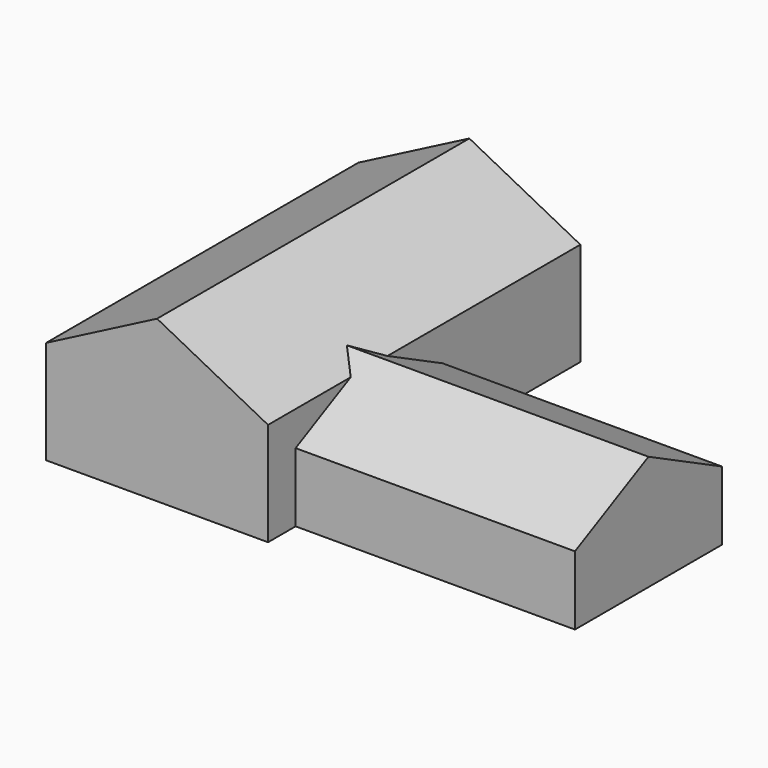
from build123d import *

# Parameters (mm, degrees)
F0_W     = 2946.4
F0_H     = 1371.6
F1_DEPTH = 2590.8
F3_DEPTH = 5181.6


with BuildPart() as f1:
    # F0 (on Front) → F1 (new body, symmetric)
    with BuildSketch(Plane.XZ):
        Polygon((0, 2133.6), (-1473.2, 1371.6), (1473.2, 1371.6), align=None)
        with Locations((0, 685.8)):
            Rectangle(F0_W, F0_H)
    extrude(amount=F1_DEPTH, both=True)

    # F2 (on Right) → F3 (join)
    with BuildSketch(Plane.YZ):
        Polygon((304.8, 0), (304.8, 914.4), (-914.4, 1524), (-2133.6, 914.4), (-2133.6, 0), align=None)
    extrude(amount=F3_DEPTH)


solid = f1.part
